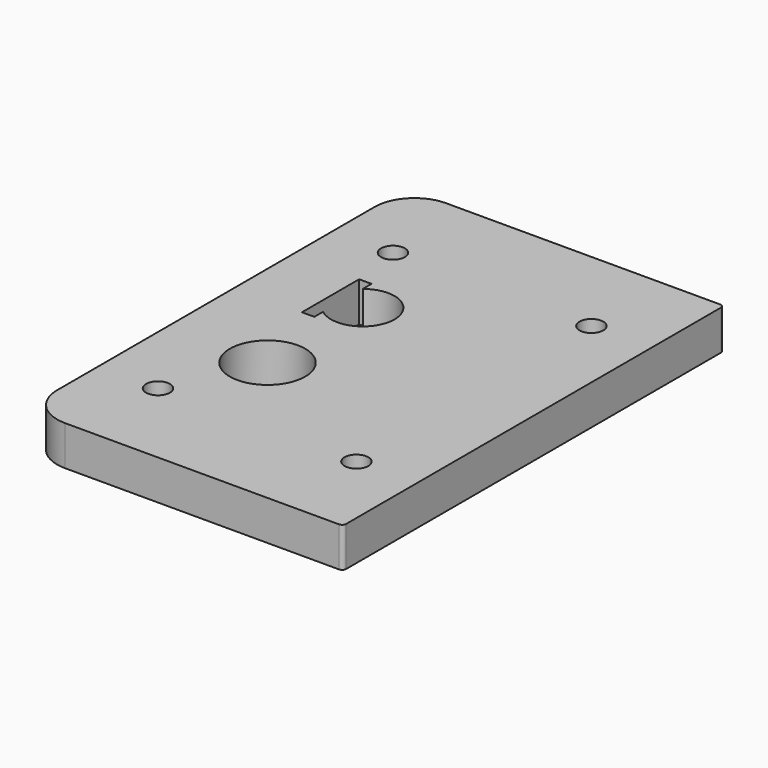
from build123d import *

# Parameters (mm, degrees)
SKETCH_W    = 80
SKETCH_H    = 120
SKETCH_R    = 9.5
SKETCH_R_2  = 3
PAD_DEPTH   = 10
FILLET_R    = 1
FILLET001_R = 10


with BuildPart() as part:
    # Sketch → Pad (new body)
    with BuildSketch(Plane.XY):
        with Locations((15, -15)):
            Rectangle(SKETCH_W, SKETCH_H)
        with Locations((0, -30)):
            Circle(SKETCH_R, mode=Mode.SUBTRACT)
        with Locations((-10, -52)):
            Circle(SKETCH_R_2, mode=Mode.SUBTRACT)
        with Locations((40, -52)):
            Circle(SKETCH_R_2, mode=Mode.SUBTRACT)
        with Locations((40, 22)):
            Circle(SKETCH_R_2, mode=Mode.SUBTRACT)
        with Locations((-10, 22)):
            Circle(SKETCH_R_2, mode=Mode.SUBTRACT)
        with BuildLine():
            ThreePointArc((-5, -6.244998), (8, 0), (-5, 6.244998))
            Line((-5, 9), (-5, 6.244998))
            Line((-8.125, 9), (-5, 9))
            Line((-8.125, -9), (-8.125, 9))
            Line((-5, -9), (-8.125, -9))
            Line((-5, -6.244998), (-5, -9))
        make_face(mode=Mode.SUBTRACT)
    extrude(amount=PAD_DEPTH)

    # Fillet
    fillet_edges = [part.edges().sort_by_distance(p)[0] for p in [
        (55, -75, 5),
        (55, 45, 5),
    ]]
    fillet(fillet_edges, radius=FILLET_R)

    # Fillet001
    fillet001_edges = [part.edges().sort_by_distance(p)[0] for p in [
        (-25, -75, 5),
        (-25, 45, 5),
    ]]
    fillet(fillet001_edges, radius=FILLET001_R)


solid = part.part
